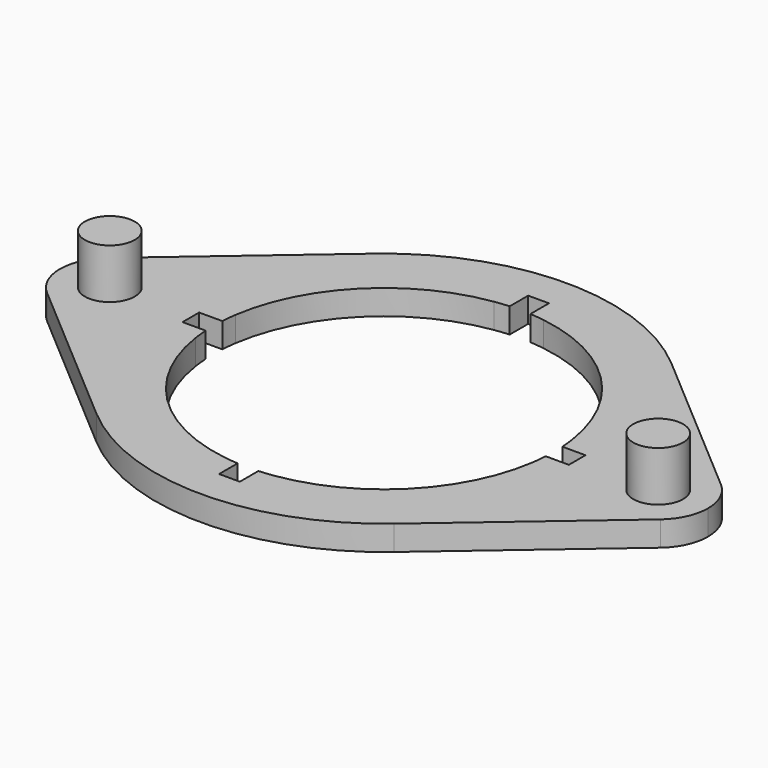
from build123d import *

# Parameters (mm, degrees)
F0_R     = 3
F1_DEPTH = 3
F2_DEPTH = 9


with BuildPart() as f1:
    # F0 (on Top) → F1 (new body)
    with BuildSketch(Plane.XY):
        with BuildLine():
            ThreePointArc((27.4128787879, -2.1872532), (27, 0), (27.4128787879, 2.1872532))
            ThreePointArc((27.4128787879, 2.1872532), (24.5129138593, 12.4646321295), (17.916666852, 20.8624794527))
            ThreePointArc((17.916666852, 20.8624794527), (2.047e-07, 27.5), (-17.9166665414, 20.8624797195))
            ThreePointArc((-17.9166665414, 20.8624797195), (-24.5129137666, 12.464632312), (-27.4128787879, 2.1872532))
            ThreePointArc((-27.4128787879, 2.1872532), (-27.1041231665, 1.1129404133), (-27, 0))
            ThreePointArc((-27, 0), (-27.1041231665, -1.1129404133), (-27.4128787879, -2.1872532))
            ThreePointArc((-27.4128787879, -2.1872532), (-24.5129136468, -12.4646325475), (-17.9166661404, -20.8624800638))
            ThreePointArc((-17.9166661404, -20.8624800638), (2.794e-07, -27.5), (17.9166665643, -20.8624796998))
            ThreePointArc((17.9166665643, -20.8624796998), (24.5129137734, -12.4646322985), (27.4128787879, -2.1872532))
        make_face()
        with BuildLine():
            ThreePointArc((3, 20.2792997907), (14.4956890143, 14.4956890143), (20.2792997907, 3))
            Line((20.2792997907, 3), (25, 3))
            Line((25, 3), (25, -3))
            Line((25, -3), (20.2792997907, -3))
            ThreePointArc((20.2792997907, -3), (14.4956890143, -14.4956890143), (3, -20.2792997907))
            Line((3, -20.2792997907), (3, -25))
            Line((3, -25), (-3, -25))
            Line((-3, -25), (-3, -20.2792997907))
            ThreePointArc((-3, -20.2792997907), (-14.4956890143, -14.4956890143), (-20.2792997907, -3))
            Line((-20.2792997907, -3), (-25, -3))
            Line((-25, -3), (-25, 3))
            Line((-25, 3), (-20.2792997907, 3))
            ThreePointArc((-20.2792997907, 3), (-14.4956890143, 14.4956890143), (-3, 20.2792997907))
            Line((-3, 20.2792997907), (-3, 25))
            Line((-3, 25), (3, 25))
            Line((3, 25), (3, 20.2792997907))
        make_face(mode=Mode.SUBTRACT)
        with BuildLine():
            ThreePointArc((-27.4128787879, 2.1872532), (-24.5129137666, 12.464632312), (-17.9166665414, 20.8624797195))
            Line((-17.9166665414, 20.8624797195), (-36.9090909114, 4.5518137315))
            ThreePointArc((-36.9090909114, 4.5518137315), (-31.5502644899, 5.8222218225), (-27.4128787879, 2.1872532))
        make_face()
        with BuildLine():
            ThreePointArc((-27.4128787879, -2.1872532), (-27.5, 0), (-27.4128787879, 2.1872532))
            ThreePointArc((-27.4128787879, 2.1872532), (-31.5502644899, 5.8222218225), (-36.9090909114, 4.5518137315))
            ThreePointArc((-36.9090909114, 4.5518137315), (-39, 5.6e-09), (-36.9090909199, -4.5518137242))
            ThreePointArc((-36.9090909199, -4.5518137242), (-31.5502644953, -5.8222218239), (-27.4128787879, -2.1872532))
        make_face()
        with Locations((-33, 0)):
            Circle(F0_R, mode=Mode.SUBTRACT)
        with Locations((-33, 0)):
            Circle(F0_R)
        with BuildLine():
            Line((-36.9090909199, -4.5518137242), (-17.9166661404, -20.8624800638))
            ThreePointArc((-17.9166661404, -20.8624800638), (-24.5129136468, -12.4646325475), (-27.4128787879, -2.1872532))
            ThreePointArc((-27.4128787879, -2.1872532), (-31.5502644953, -5.8222218239), (-36.9090909199, -4.5518137242))
        make_face()
        with BuildLine():
            ThreePointArc((27.4128787879, 2.1872532), (27.478211065, 1.0944937947), (27.5, 0))
            ThreePointArc((27.5, 0), (27.478211065, -1.0944937947), (27.4128787879, -2.1872532))
            ThreePointArc((27.4128787879, -2.1872532), (31.5502644944, -5.8222218236), (36.9090909184, -4.5518137255))
            ThreePointArc((36.9090909184, -4.5518137255), (38.4522722562, -2.5045413242), (39, 0))
            ThreePointArc((39, 0), (38.4522722545, 2.5045413278), (36.9090909125, 4.5518137306))
            ThreePointArc((36.9090909125, 4.5518137306), (31.5502644906, 5.8222218227), (27.4128787879, 2.1872532))
        make_face()
        with Locations((33, 0)):
            Circle(F0_R, mode=Mode.SUBTRACT)
        with Locations((33, 0)):
            Circle(F0_R)
        with BuildLine():
            ThreePointArc((36.9090909184, -4.5518137255), (31.5502644944, -5.8222218236), (27.4128787879, -2.1872532))
            ThreePointArc((27.4128787879, -2.1872532), (24.5129137734, -12.4646322985), (17.9166665643, -20.8624796998))
            Line((17.9166665643, -20.8624796998), (36.9090909184, -4.5518137255))
        make_face()
        with BuildLine():
            ThreePointArc((17.916666852, 20.8624794527), (24.5129138593, 12.4646321295), (27.4128787879, 2.1872532))
            ThreePointArc((27.4128787879, 2.1872532), (31.5502644906, 5.8222218227), (36.9090909125, 4.5518137306))
            Line((36.9090909125, 4.5518137306), (17.916666852, 20.8624794527))
        make_face()
        with BuildLine():
            ThreePointArc((27.4128787879, -2.1872532), (27.478211065, -1.0944937947), (27.5, 0))
            ThreePointArc((27.5, 0), (27.478211065, 1.0944937947), (27.4128787879, 2.1872532))
            ThreePointArc((27.4128787879, 2.1872532), (27, 0), (27.4128787879, -2.1872532))
        make_face()
        with BuildLine():
            ThreePointArc((-27, 0), (-27.1041231665, 1.1129404133), (-27.4128787879, 2.1872532))
            ThreePointArc((-27.4128787879, 2.1872532), (-27.5, 0), (-27.4128787879, -2.1872532))
            ThreePointArc((-27.4128787879, -2.1872532), (-27.1041231665, -1.1129404133), (-27, 0))
        make_face()
        with BuildLine():
            ThreePointArc((1.25, 20.4618547546), (2.126959468, 20.3893610351), (3, 20.2792997907))
            Line((3, 20.2792997907), (3, 25))
            Line((3, 25), (-3, 25))
            Line((-3, 25), (-3, 20.2792997907))
            ThreePointArc((-3, 20.2792997907), (-2.126959468, 20.3893610351), (-1.25, 20.4618547546))
            Line((-1.25, 20.4618547546), (-1.25, 23.25))
            Line((-1.25, 23.25), (1.25, 23.25))
            Line((1.25, 23.25), (1.25, 20.4618547546))
        make_face()
        with BuildLine():
            Line((-23.25, 1.25), (-20.4618547546, 1.25))
            ThreePointArc((-20.4618547546, 1.25), (-20.3893610351, 2.126959468), (-20.2792997907, 3))
            Line((-20.2792997907, 3), (-25, 3))
            Line((-25, 3), (-25, -3))
            Line((-25, -3), (-20.2792997907, -3))
            ThreePointArc((-20.2792997907, -3), (-20.3893610351, -2.126959468), (-20.4618547546, -1.25))
            Line((-20.4618547546, -1.25), (-23.25, -1.25))
            Line((-23.25, -1.25), (-23.25, 1.25))
        make_face()
        with BuildLine():
            Line((3, -25), (3, -20.2792997907))
            ThreePointArc((3, -20.2792997907), (2.126959468, -20.3893610351), (1.25, -20.4618547546))
            Line((1.25, -20.4618547546), (1.25, -23.25))
            Line((1.25, -23.25), (-1.25, -23.25))
            Line((-1.25, -23.25), (-1.25, -20.4618547546))
            ThreePointArc((-1.25, -20.4618547546), (-2.126959468, -20.3893610351), (-3, -20.2792997907))
            Line((-3, -20.2792997907), (-3, -25))
            Line((-3, -25), (3, -25))
        make_face()
        with BuildLine():
            ThreePointArc((20.2792997907, 3), (20.3893610351, 2.126959468), (20.4618547546, 1.25))
            Line((20.4618547546, 1.25), (23.25, 1.25))
            Line((23.25, 1.25), (23.25, -1.25))
            Line((23.25, -1.25), (20.4618547546, -1.25))
            ThreePointArc((20.4618547546, -1.25), (20.3893610351, -2.126959468), (20.2792997907, -3))
            Line((20.2792997907, -3), (25, -3))
            Line((25, -3), (25, 3))
            Line((25, 3), (20.2792997907, 3))
        make_face()
    extrude(amount=F1_DEPTH)

    # F0 (on Top) → F2 (join)
    with BuildSketch(Plane.XY):
        with Locations((-33, 0)):
            Circle(F0_R)
        with Locations((33, 0)):
            Circle(F0_R)
    extrude(amount=F2_DEPTH)


solid = f1.part
